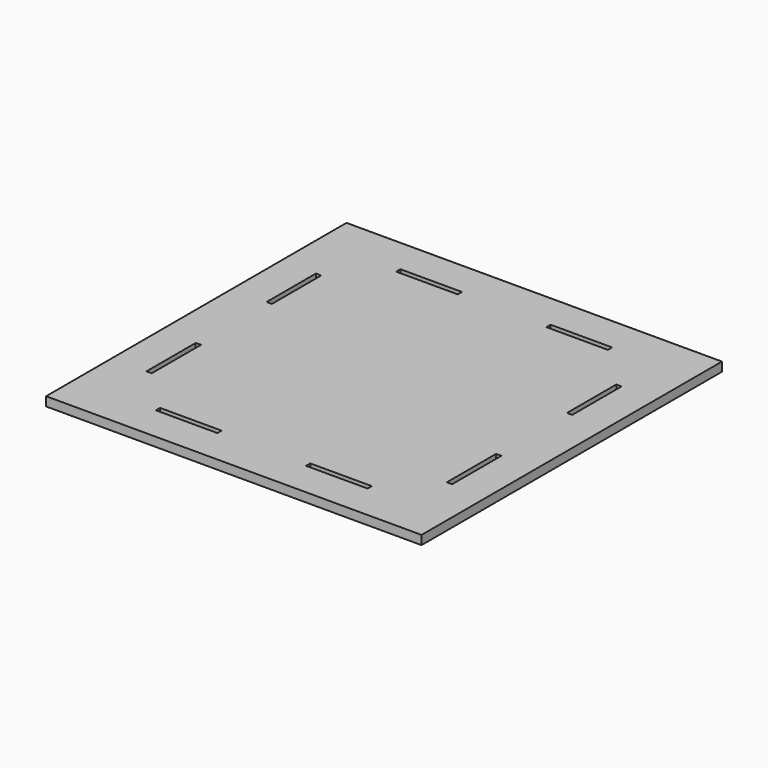
from build123d import *

# Parameters (mm, degrees)
F0_W     = 127
F0_H     = 127
F0_W_2   = 20.828
F0_H_2   = 1.778
F0_W_3   = 1.778
F0_H_3   = 20.828
F1_DEPTH = 3.048


with BuildPart() as f1:
    # F0 (on Top) → F1 (new body)
    with BuildSketch(Plane.XY):
        with Locations((-271.886553, 1.5875)):
            Rectangle(F0_W, F0_H)
        with Locations((-297.286553, -49.2125)):
            Rectangle(F0_W_2, F0_H_2, mode=Mode.SUBTRACT)
        with Locations((-322.686553, -23.8125)):
            Rectangle(F0_W_3, F0_H_3, mode=Mode.SUBTRACT)
        with Locations((-246.486553, -49.2125)):
            Rectangle(F0_W_2, F0_H_2, mode=Mode.SUBTRACT)
        with Locations((-221.086553, -23.8125)):
            Rectangle(F0_W_3, F0_H_3, mode=Mode.SUBTRACT)
        with Locations((-322.686553, 26.9875)):
            Rectangle(F0_W_3, F0_H_3, mode=Mode.SUBTRACT)
        with Locations((-297.286553, 52.3875)):
            Rectangle(F0_W_2, F0_H_2, mode=Mode.SUBTRACT)
        with Locations((-221.086553, 26.9875)):
            Rectangle(F0_W_3, F0_H_3, mode=Mode.SUBTRACT)
        with Locations((-246.486553, 52.3875)):
            Rectangle(F0_W_2, F0_H_2, mode=Mode.SUBTRACT)
    extrude(amount=F1_DEPTH)


solid = f1.part
